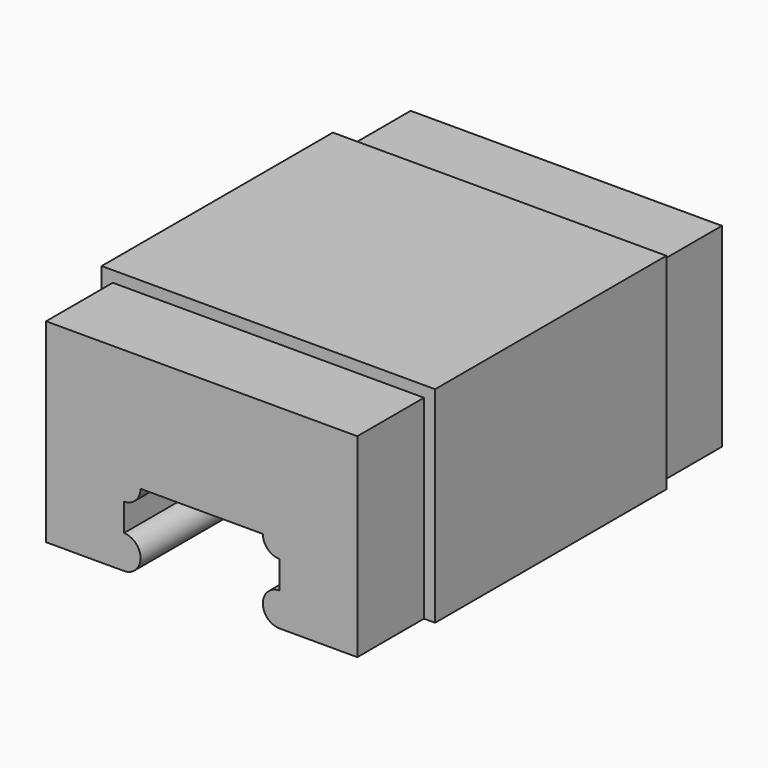
from build123d import *

# Parameters (mm, degrees)
F1_DEPTH = 82
F2_W     = 60
F2_H     = 15
F3_DEPTH = 2
F4_W     = 2
F4_H     = 15
F5_DEPTH = 35


with BuildPart() as f1:
    # F0 (on Front) → F1 (new body)
    with BuildSketch(Plane.XZ):
        with BuildLine():
            ThreePointArc((16, 11), (18.12132, 11.87868), (19, 14))
            Line((19, 14), (41, 14))
            ThreePointArc((41, 14), (41.87868, 11.87868), (44, 11))
            Line((44, 11), (44, 6))
            ThreePointArc((44, 6), (41, 3), (44, 0))
            Line((44, 0), (60, 0))
            Line((60, 0), (60, 37))
            Line((60, 37), (0, 37))
            Line((0, 37), (0, 0))
            Line((0, 0), (16, 0))
            ThreePointArc((16, 0), (19, 3), (16, 6))
            Line((16, 6), (16, 11))
        make_face()
    extrude(amount=F1_DEPTH)

    # F2 (on face) → F3 (cut)
    with BuildSketch(Plane.XY.offset(37)):
        with Locations((30, -7.5)):
            Rectangle(F2_W, F2_H)
        with Locations((30, -74.5)):
            Rectangle(F2_W, F2_H)
    extrude(amount=-F3_DEPTH, mode=Mode.SUBTRACT)

    # F4 (on face) → F5 (cut)
    with BuildSketch(Plane.XY.offset(35)):
        with Locations((1, -7.5)):
            Rectangle(F4_W, F4_H)
        with Locations((59, -7.5)):
            Rectangle(F4_W, F4_H)
        with Locations((1, -74.5)):
            Rectangle(F4_W, F4_H)
        with Locations((59, -74.5)):
            Rectangle(F4_W, F4_H)
    extrude(amount=-F5_DEPTH, mode=Mode.SUBTRACT)


solid = f1.part
